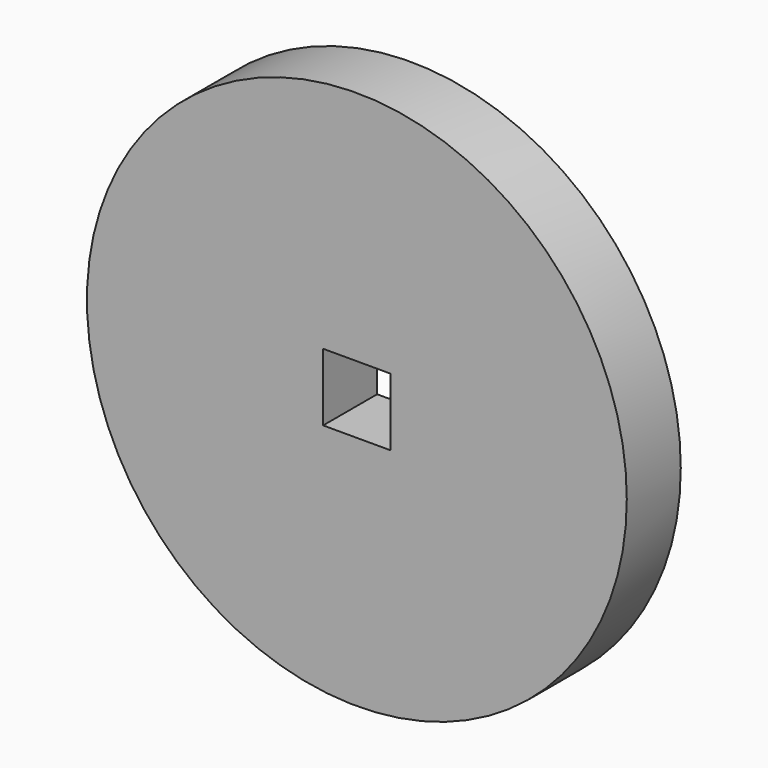
from build123d import *

# Parameters (mm, degrees)
F0_R     = 12.7
F1_DEPTH = 1.5875
F2_W     = 3.175
F2_H     = 3.175
F3_DEPTH = 3.176


with BuildPart() as f1:
    # F0 (on Front) → F1 (new body, symmetric)
    with BuildSketch(Plane.XZ):
        Circle(F0_R)
    extrude(amount=F1_DEPTH, both=True)

    # F2 (on face) → F3 (cut, through all)
    with BuildSketch(Plane(origin=(0, 1.5875, 0), x_dir=(-1, 0, 0), z_dir=(0, 1, 0))):
        Rectangle(F2_W, F2_H)
    extrude(amount=-F3_DEPTH, mode=Mode.SUBTRACT)


solid = f1.part
